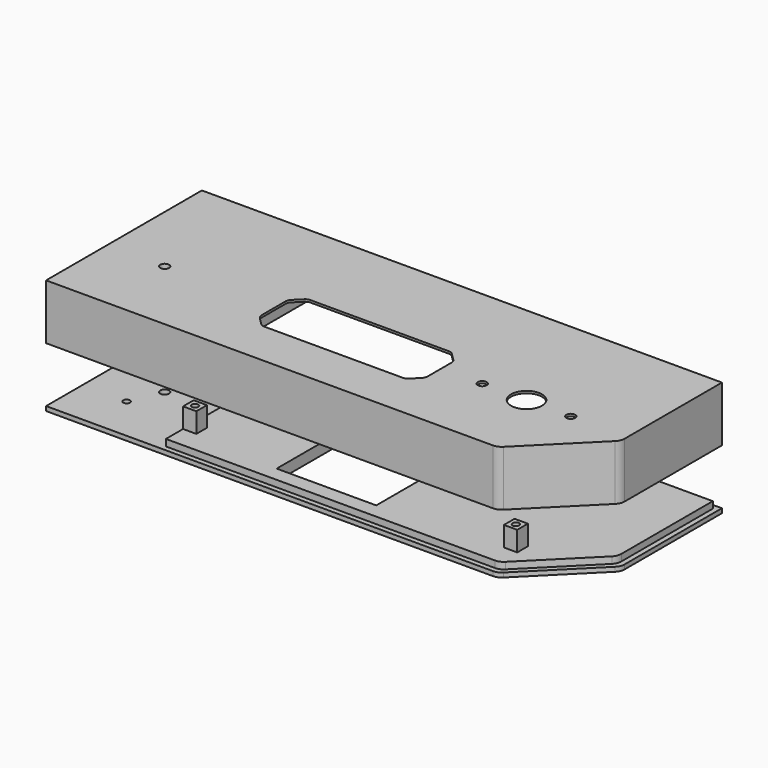
from build123d import *

# Parameters (mm, degrees)
F0_W      = 75
F0_H      = 26
F0_R      = 2
F0_R_2    = 7
F1_DEPTH  = 1
F2_DEPTH  = 25
F3_R      = 5
F4_SIZE   = 5
F5_R      = 3
F6_W      = 50
F6_H      = 88
F7_DEPTH  = 25
F10_DEPTH = 3
F11_DEPTH = 2
F12_DEPTH = 50
F13_R     = 5
F14_W     = 45
F14_H     = 11
F15_DEPTH = 25
F14_W_2   = 6
F14_H_2   = 6
F14_R     = 1.5
F16_DEPTH = 14
F17_R     = 1.5
F18_DEPTH = 40
F19_DEPTH = 25
F20_R     = 2
F21_DEPTH = 93.4


with BuildPart() as f1:
    # F0 (on Top) → F1 (new body)
    with BuildSketch(Plane.XY):
        Polygon((154, 68), (2, 68), (2, 2), (153.1715728753, 2), (154, 2.8284271247), align=None)
        with Locations((63.5, 33.5)):
            Rectangle(F0_W, F0_H, mode=Mode.SUBTRACT)
        with Locations((119.5, 34.5)):
            Circle(F0_R, mode=Mode.SUBTRACT)
        with Locations((139.5, 34.5)):
            Circle(F0_R_2, mode=Mode.SUBTRACT)
        Polygon((183, 68), (154, 68), (154, 2.8284271247), (183, 31.8284271247), align=None)
        with Locations((159.5, 34.5)):
            Circle(F0_R, mode=Mode.SUBTRACT)
        Polygon((2, 86), (2, 68), (154, 68), (183, 68), (183, 86), align=None)
    extrude(amount=-F1_DEPTH)

    # F0 (on Top) → F2 (join)
    with BuildSketch(Plane.XY):
        Polygon((0, 68), (0, 0), (154, 0), (185, 31), (185, 88), (0, 88), align=None)
        Polygon((2, 2), (2, 68), (2, 86), (183, 86), (183, 68), (183, 31.8284271247), (154, 2.8284271247), (153.1715728753, 2), align=None, mode=Mode.SUBTRACT)
    extrude(amount=-F2_DEPTH)

    # F3
    f3_edges = [f1.edges().sort_by_distance(p)[0] for p in [
        (154, 0, -12.5),
        (185, 31, -12.5),
        (153.171573, 2, -13),
        (183, 31.828427, -13),
    ]]
    fillet(f3_edges, radius=F3_R)

    # F4
    f4_edges = [f1.edges().sort_by_distance(p)[0] for p in [
        (26, 46.5, -0.5),
        (26, 20.5, -0.5),
        (101, 20.5, -0.5),
        (101, 46.5, -0.5),
    ]]
    chamfer(f4_edges, length=F4_SIZE)

    # F5
    f5_edges = [f1.edges().sort_by_distance(p)[0] for p in [
        (26, 41.5, -0.5),
        (31, 46.5, -0.5),
        (26, 25.5, -0.5),
        (31, 20.5, -0.5),
        (96, 46.5, -0.5),
        (101, 41.5, -0.5),
        (101, 25.5, -0.5),
        (96, 20.5, -0.5),
    ]]
    fillet(f5_edges, radius=F5_R)

    # F6 (on Top) → F7 (join)
    with BuildSketch(Plane.XY):
        with Locations((-25, 44)):
            Rectangle(F6_W, F6_H)
    extrude(amount=-F7_DEPTH)


with BuildPart() as f10:
    # F9 (on offset) → F10 (new body)
    with BuildSketch(Plane.XY.offset(-50)):
        Polygon((2.3, 85.7), (2.3, 2.3), (153.0473088065, 2.3), (182.7, 31.9526911935), (182.7, 85.7), align=None)
    extrude(amount=F10_DEPTH)

    # F9 (on offset) + F10_face (on face) → F11 (join)
    with BuildSketch(Plane.XY.offset(-50)):
        Polygon((0, 88), (0, 0), (154, 0), (185, 31), (185, 88), align=None)
        Polygon((153.0473088065, 2.3), (2.3, 2.3), (2.3, 85.7), (182.7, 85.7), (182.7, 31.9526911935), align=None, mode=Mode.SUBTRACT)
    with BuildSketch(Plane(origin=(90.0824463558, 44.9576740673, -50), x_dir=(1, 0, 0), z_dir=(0, 0, -1))):
        Polygon((92.6175536442, -40.7423259327), (92.6175536442, 13.0049828738), (62.9648624507, 42.6576740673), (-87.7824463558, 42.6576740673), (-87.7824463558, -40.7423259327), align=None)
    extrude(amount=-F11_DEPTH, dir=(0, 0, 1))

    # F12 (add): a face of the model
    f12_faces = [f10.faces().sort_by_distance(p)[0] for p in [
        (0, 44, -51),
    ]]
    extrude(f12_faces, amount=F12_DEPTH)

    # F13
    f13_edges = [f10.edges().sort_by_distance(p)[0] for p in [
        (153.047309, 2.3, -48.5),
        (154, 0, -51),
        (182.7, 31.952691, -48.5),
        (185, 31, -51),
    ]]
    fillet(f13_edges, radius=F13_R)

    # F14 (on face) → F15 (cut)
    with BuildSketch(Plane(origin=(0, 0, -52), x_dir=(1, 0, 0), z_dir=(0, 0, -1))):
        with Locations((69.5, -39.5)):
            Rectangle(F14_W, F14_H)
    extrude(amount=-F15_DEPTH, mode=Mode.SUBTRACT)

    # F14 (on face) → F16 (join)
    with BuildSketch(Plane(origin=(0, 0, -52), x_dir=(1, 0, 0), z_dir=(0, 0, -1))):
        with Locations((5.3, -65)):
            Rectangle(F14_W_2, F14_H_2)
        with Locations((5.3, -65)):
            Circle(F14_R, mode=Mode.SUBTRACT)
        with Locations((150.3, -65)):
            Rectangle(F14_W_2, F14_H_2)
        with Locations((150.3, -65)):
            Circle(F14_R, mode=Mode.SUBTRACT)
        with Locations((150.3, -15)):
            Rectangle(F14_W_2, F14_H_2)
        with Locations((150.3, -15)):
            Circle(F14_R, mode=Mode.SUBTRACT)
        with Locations((5.3, -15)):
            Rectangle(F14_W_2, F14_H_2)
        with Locations((5.3, -15)):
            Circle(F14_R, mode=Mode.SUBTRACT)
    extrude(amount=-F16_DEPTH)


with BuildPart() as f18_tool:
    # F17 (on face) → F18 (new body)
    with BuildSketch(Plane(origin=(0, 0, -52), x_dir=(1, 0, 0), z_dir=(0, 0, -1))):
        with Locations((-30, -20.4637907416)):
            Circle(F17_R)
        with Locations((-30, -70.4637907416)):
            Circle(F17_R)
    extrude(amount=-F18_DEPTH)


with BuildPart() as f1_1:
    add(f1.part)

    # F18: cut by f18_tool
    add(f18_tool.part, mode=Mode.SUBTRACT)


with BuildPart() as f10_1:
    add(f10.part)

    # F18: cut by f18_tool
    add(f18_tool.part, mode=Mode.SUBTRACT)

    # F19 (cut): a face of the model
    f19_faces = [f10_1.faces().sort_by_distance(p)[0] for p in [
        (69.5, 34, -49.5),
    ]]
    extrude(f19_faces, amount=-F19_DEPTH, mode=Mode.SUBTRACT)


with BuildPart() as f21_tool:
    # F20 (on face) → F21 (new body)
    with BuildSketch(Plane.XY):
        with Locations((-24, 34.5)):
            Circle(F20_R)
    extrude(amount=-F21_DEPTH)


with BuildPart() as f1_2:
    add(f1_1.part)

    # F21: cut by f21_tool
    add(f21_tool.part, mode=Mode.SUBTRACT)


with BuildPart() as f10_2:
    add(f10_1.part)

    # F21: cut by f21_tool
    add(f21_tool.part, mode=Mode.SUBTRACT)


solid = Compound([f1_2.part, f10_2.part])
